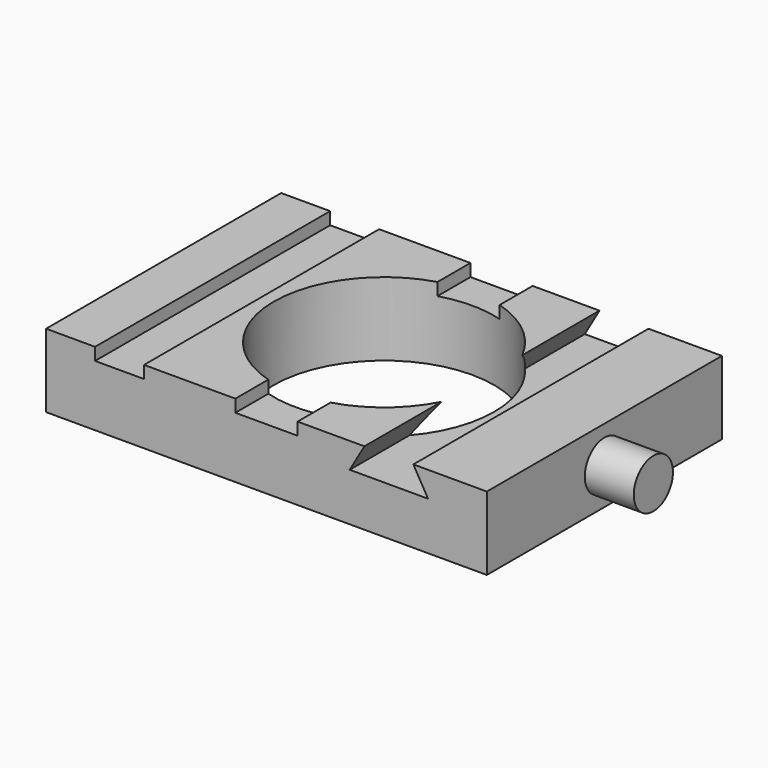
from build123d import *

# Parameters (mm, degrees)
F0_W     = 90
F0_H     = 60
F0_R     = 22.5
F1_DEPTH = 15
F2_W     = 10
F2_H     = 60
F3_DEPTH = 2.54
F5_DEPTH = 60.001
F6_R     = 5
F7_DEPTH = 10


with BuildPart() as f1:
    # F0 (on Top) → F1 (new body)
    with BuildSketch(Plane.XY):
        Rectangle(F0_W, F0_H)
        Circle(F0_R, mode=Mode.SUBTRACT)
    extrude(amount=F1_DEPTH)

    # F2 (on face) → F3 (cut)
    with BuildSketch(Plane.XY.offset(15)):
        with Locations((-30, 0)):
            Rectangle(F2_W, F2_H)
        with BuildLine():
            Line((6.35, 30), (-6.35, 30))
            Line((-6.35, 30), (-6.35, 21.585354))
            ThreePointArc((-6.35, 21.585354), (0, 22.5), (6.35, 21.585354))
            Line((6.35, 21.585354), (6.35, 30))
        make_face()
        with BuildLine():
            Line((-6.35, -21.585354), (-6.35, -30))
            Line((-6.35, -30), (6.35, -30))
            Line((6.35, -30), (6.35, -21.585354))
            ThreePointArc((6.35, -21.585354), (0, -22.5), (-6.35, -21.585354))
        make_face()
        with BuildLine():
            Line((6.35, 30), (-6.35, 30))
            Line((-6.35, 30), (-6.35, 21.585354))
            ThreePointArc((-6.35, 21.585354), (0, 22.5), (6.35, 21.585354))
            Line((6.35, 21.585354), (6.35, 30))
        make_face()
    extrude(amount=-F3_DEPTH, mode=Mode.SUBTRACT)

    # F4 (on face) → F5 (cut, through all)
    with BuildSketch(Plane.XZ.offset(30)):
        Polygon((30, 15), (20, 15), (17, 9.803848), (33, 9.803848), align=None)
    extrude(amount=-F5_DEPTH, mode=Mode.SUBTRACT)

    # F6 (on face) → F7 (join)
    with BuildSketch(Plane.YZ.offset(45)):
        with Locations((0, 7.5)):
            Circle(F6_R)
    extrude(amount=F7_DEPTH)


solid = f1.part
